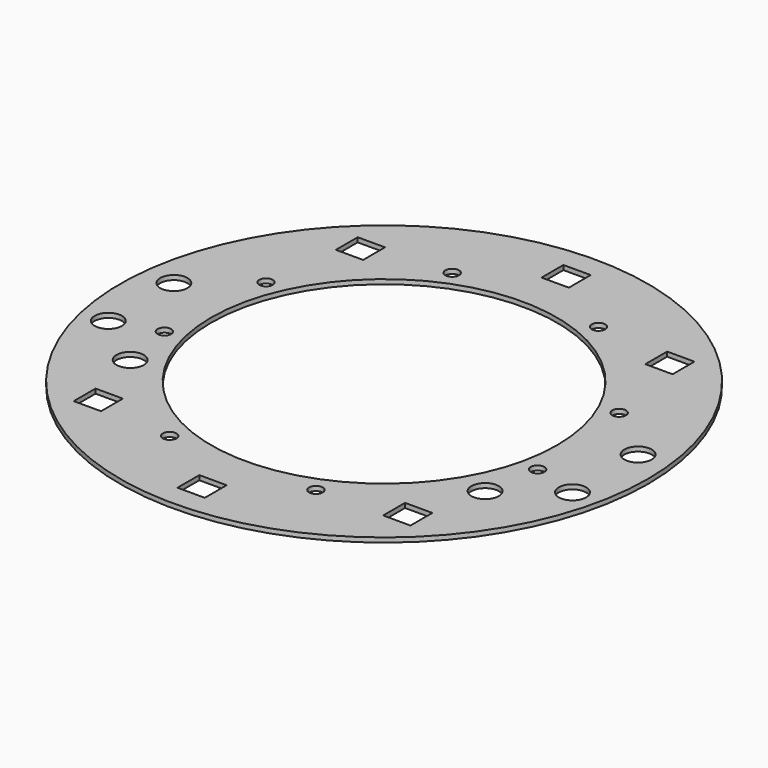
from build123d import *

# Parameters (mm, degrees)
CYLINDER531_R               = 3
CYLINDER531_DEPTH           = 7
CYLINDER530_R               = 3
CYLINDER530_DEPTH           = 7
CYLINDER445_R               = 1.5
CYLINDER445_DEPTH           = 100
CYLINDER445_PLACEMENT_ANGLE = 100
CYLINDER446_R               = 1.5
CYLINDER446_DEPTH           = 100
CYLINDER446_PLACEMENT_ANGLE = 135
CYLINDER447_R               = 1.5
CYLINDER447_DEPTH           = 100
CYLINDER448_R               = 1.5
CYLINDER448_DEPTH           = 100
CYLINDER448_PLACEMENT_ANGLE = 225
CYLINDER449_R               = 1.5
CYLINDER449_DEPTH           = 100
CYLINDER450_R               = 1.5
CYLINDER450_DEPTH           = 100
CYLINDER450_PLACEMENT_ANGLE = 55
CYLINDER451_R               = 1.5
CYLINDER451_DEPTH           = 100
CYLINDER444_R               = 1.5
CYLINDER444_DEPTH           = 100
CYLINDER444_PLACEMENT_ANGLE = 45
BOX154_W                    = 6
BOX154_H                    = 6
BOX154_DEPTH                = 10
BOX151_W                    = 6
BOX151_H                    = 6
BOX151_DEPTH                = 10
BOX155_W                    = 6
BOX155_H                    = 6
BOX155_DEPTH                = 10
BOX153_W                    = 6
BOX153_H                    = 6
BOX153_DEPTH                = 10
BOX156_W                    = 6
BOX156_H                    = 6
BOX156_DEPTH                = 10
BOX152_W                    = 6
BOX152_H                    = 6
BOX152_DEPTH                = 10
CYLINDER407_R               = 3
CYLINDER407_DEPTH           = 7
CYLINDER405_R               = 3
CYLINDER405_DEPTH           = 7
CYLINDER404_R               = 3
CYLINDER404_DEPTH           = 7
CYLINDER406_R               = 3
CYLINDER406_DEPTH           = 7
TUBE020_R                   = 58
TUBE020_R_2                 = 38
TUBE020_DEPTH               = 1


with BuildPart() as obj1:
    # Cylinder531 → Cylinder531 (new body)
    with BuildSketch(Plane(origin=(39, -21, 50), x_dir=(1, 0, 0), z_dir=(0, 0, 1))):
        Circle(CYLINDER531_R)
    extrude(amount=CYLINDER531_DEPTH)


with BuildPart() as compound337:
    # Cylinder530 → Cylinder530 (new body)
    with BuildSketch(Plane(origin=(-39, -21, 50), x_dir=(1, 0, 0), z_dir=(0, 0, 1))):
        Circle(CYLINDER530_R)
    extrude(amount=CYLINDER530_DEPTH)

    # Compound337: union obj1
    add(obj1.part)


with BuildPart() as compound337_1:
    # Compound337 placement: moved
    add(compound337.part.moved(Location((0, 0, -25))))


with BuildPart() as obj2:
    # Cylinder445 → Cylinder445 (new body)
    with BuildSketch(Plane.XY):
        Circle(CYLINDER445_R)
    extrude(amount=CYLINDER445_DEPTH)


with BuildPart() as obj2_1:
    # Cylinder445 placement: moved
    add(obj2.part.moved(Location((41.004432, -9.090464, 0))).rotate(Axis((41.004432, -9.090464, 0), (0, 0, 1)), CYLINDER445_PLACEMENT_ANGLE))


with BuildPart() as obj3:
    # Cylinder446 → Cylinder446 (new body)
    with BuildSketch(Plane.XY):
        Circle(CYLINDER446_R)
    extrude(amount=CYLINDER446_DEPTH)


with BuildPart() as obj3_1:
    # Cylinder446 placement: moved
    add(obj3.part.moved(Location((38.80294, 16.072704, 0))).rotate(Axis((38.80294, 16.072704, 0), (0, 0, 1)), CYLINDER446_PLACEMENT_ANGLE))


with BuildPart() as obj4:
    # Cylinder447 → Cylinder447 (new body)
    with BuildSketch(Plane(origin=(16.072704, 38.80294, 0), x_dir=(-1, 0, 0), z_dir=(0, 0, 1))):
        Circle(CYLINDER447_R)
    extrude(amount=CYLINDER447_DEPTH)


with BuildPart() as obj5:
    # Cylinder448 → Cylinder448 (new body)
    with BuildSketch(Plane.XY):
        Circle(CYLINDER448_R)
    extrude(amount=CYLINDER448_DEPTH)


with BuildPart() as obj5_1:
    # Cylinder448 placement: moved
    add(obj5.part.moved(Location((-16.072704, 38.80294, 0))).rotate(Axis((-16.072704, 38.80294, 0), (0, 0, 1)), CYLINDER448_PLACEMENT_ANGLE))


with BuildPart() as obj6:
    # Cylinder449 → Cylinder449 (new body)
    with BuildSketch(Plane(origin=(-38.80294, 16.072704, 0), x_dir=(0, -1, 0), z_dir=(0, 0, 1))):
        Circle(CYLINDER449_R)
    extrude(amount=CYLINDER449_DEPTH)


with BuildPart() as obj7:
    # Cylinder450 → Cylinder450 (new body)
    with BuildSketch(Plane.XY):
        Circle(CYLINDER450_R)
    extrude(amount=CYLINDER450_DEPTH)


with BuildPart() as obj7_1:
    # Cylinder450 placement: moved
    add(obj7.part.moved(Location((-41.004432, -9.090464, 0))).rotate(Axis((-41.004432, -9.090464, 0), (0, 0, -1)), CYLINDER450_PLACEMENT_ANGLE))


with BuildPart() as obj8:
    # Cylinder451 → Cylinder451 (new body)
    with BuildSketch(Plane(origin=(-16.072704, -38.80294, 0), x_dir=(1, 0, 0), z_dir=(0, 0, 1))):
        Circle(CYLINDER451_R)
    extrude(amount=CYLINDER451_DEPTH)


with BuildPart() as compound325:
    # Cylinder444 → Cylinder444 (new body)
    with BuildSketch(Plane.XY):
        Circle(CYLINDER444_R)
    extrude(amount=CYLINDER444_DEPTH)


with BuildPart() as compound325_1:
    # Cylinder444 placement: moved
    add(compound325.part.moved(Location((16.072704, -38.80294, 0))).rotate(Axis((16.072704, -38.80294, 0), (0, 0, 1)), CYLINDER444_PLACEMENT_ANGLE))

    # Compound325: union obj2, obj3, obj4, obj5, obj6, obj7, obj8
    add(obj2_1.part)
    add(obj3_1.part)
    add(obj4.part)
    add(obj5_1.part)
    add(obj6.part)
    add(obj7_1.part)
    add(obj8.part)


with BuildPart() as krychle154:
    # Box154 → Box154 (new body)
    with BuildSketch(Plane(origin=(-37, -39, 40), x_dir=(1, 0, 0), z_dir=(0, 0, 1))):
        with Locations((3, 3)):
            Rectangle(BOX154_W, BOX154_H)
    extrude(amount=BOX154_DEPTH)


with BuildPart() as krychle151:
    # Box151 → Box151 (new body)
    with BuildSketch(Plane(origin=(-3, -53, 40), x_dir=(1, 0, 0), z_dir=(0, 0, 1))):
        with Locations((3, 3)):
            Rectangle(BOX151_W, BOX151_H)
    extrude(amount=BOX151_DEPTH)


with BuildPart() as krychle155:
    # Box155 → Box155 (new body)
    with BuildSketch(Plane(origin=(31, 33, 40), x_dir=(1, 0, 0), z_dir=(0, 0, 1))):
        with Locations((3, 3)):
            Rectangle(BOX155_W, BOX155_H)
    extrude(amount=BOX155_DEPTH)


with BuildPart() as krychle153:
    # Box153 → Box153 (new body)
    with BuildSketch(Plane(origin=(-37, 33, 40), x_dir=(1, 0, 0), z_dir=(0, 0, 1))):
        with Locations((3, 3)):
            Rectangle(BOX153_W, BOX153_H)
    extrude(amount=BOX153_DEPTH)


with BuildPart() as krychle156:
    # Box156 → Box156 (new body)
    with BuildSketch(Plane(origin=(31, -39, 40), x_dir=(1, 0, 0), z_dir=(0, 0, 1))):
        with Locations((3, 3)):
            Rectangle(BOX156_W, BOX156_H)
    extrude(amount=BOX156_DEPTH)


with BuildPart() as compound316:
    # Box152 → Box152 (new body)
    with BuildSketch(Plane(origin=(-3, 47, 40), x_dir=(1, 0, 0), z_dir=(0, 0, 1))):
        with Locations((3, 3)):
            Rectangle(BOX152_W, BOX152_H)
    extrude(amount=BOX152_DEPTH)

    # Compound316: union Krychle154, Krychle151, Krychle155, Krychle153, Krychle156
    add(krychle154.part)
    add(krychle151.part)
    add(krychle155.part)
    add(krychle153.part)
    add(krychle156.part)


with BuildPart() as compound316_1:
    # Compound316 placement: moved
    add(compound316.part.moved(Location((0, 0, -18))))


with BuildPart() as obj9:
    # Cylinder407 → Cylinder407 (new body)
    with BuildSketch(Plane(origin=(51, -12, 50), x_dir=(1, 0, 0), z_dir=(0, 0, 1))):
        Circle(CYLINDER407_R)
    extrude(amount=CYLINDER407_DEPTH)


with BuildPart() as obj10:
    # Cylinder405 → Cylinder405 (new body)
    with BuildSketch(Plane(origin=(51, 6, 50), x_dir=(1, 0, 0), z_dir=(0, 0, 1))):
        Circle(CYLINDER405_R)
    extrude(amount=CYLINDER405_DEPTH)


with BuildPart() as obj11:
    # Cylinder404 → Cylinder404 (new body)
    with BuildSketch(Plane(origin=(-51, 6, 50), x_dir=(1, 0, 0), z_dir=(0, 0, 1))):
        Circle(CYLINDER404_R)
    extrude(amount=CYLINDER404_DEPTH)


with BuildPart() as compound312:
    # Cylinder406 → Cylinder406 (new body)
    with BuildSketch(Plane(origin=(-51, -12, 50), x_dir=(1, 0, 0), z_dir=(0, 0, 1))):
        Circle(CYLINDER406_R)
    extrude(amount=CYLINDER406_DEPTH)

    # Compound312: union obj9, obj10, obj11
    add(obj9.part)
    add(obj10.part)
    add(obj11.part)


with BuildPart() as compound312_1:
    # Compound312 placement: moved
    add(compound312.part.moved(Location((0, 0, -25))))


with BuildPart() as cut:
    # Tube020 → Tube020 (new body)
    with BuildSketch(Plane.XY.offset(31)):
        Circle(TUBE020_R)
        Circle(TUBE020_R_2, mode=Mode.SUBTRACT)
    extrude(amount=TUBE020_DEPTH)

    # Cut161: cut Compound312
    add(compound312_1.part, mode=Mode.SUBTRACT)

    # Cut163: cut Compound316
    add(compound316_1.part, mode=Mode.SUBTRACT)

    # Cut173: cut Compound325
    add(compound325_1.part, mode=Mode.SUBTRACT)

    # Cut: cut Compound337
    add(compound337_1.part, mode=Mode.SUBTRACT)


solid = cut.part
